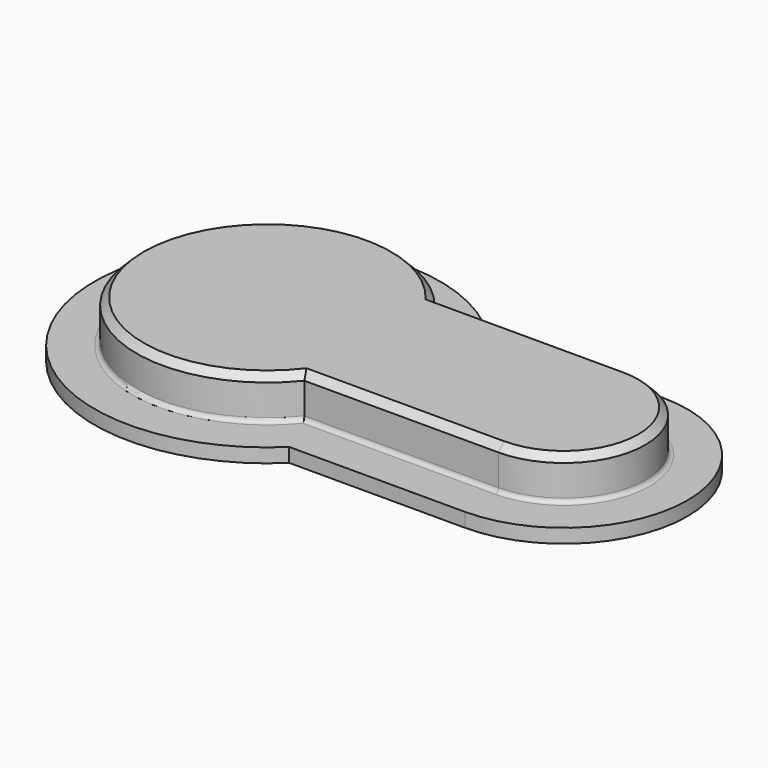
from build123d import *

# Parameters (mm, degrees)
F1_DEPTH = 3
F3_DEPTH = 1
F4_SIZE  = 0.5
F5_R     = 0.3


with BuildPart() as f1:
    # F0 (on Top) → F1 (new body)
    with BuildSketch(Plane.XY):
        with BuildLine():
            Line((21.1, 5.8), (7.2698005475, 5.8))
            ThreePointArc((7.2698005475, 5.8), (-9.3, 0), (7.2698005475, -5.8))
            Line((7.2698005475, -5.8), (21.1, -5.8))
            ThreePointArc((21.1, -5.8), (26.9, 0), (21.1, 5.8))
        make_face()
    extrude(amount=F1_DEPTH)

    # F2 (on face) → F3 (join)
    with BuildSketch(Plane(origin=(0, 0, 0), x_dir=(1, 0, 0), z_dir=(0, 0, -1))):
        with BuildLine():
            ThreePointArc((21.1, -8.8), (29.9, 0), (21.1, 8.8))
            Line((21.1, 8.8), (8.5936022715, 8.8))
            ThreePointArc((8.5936022715, 8.8), (-12.3, 0), (8.5936022715, -8.8))
            Line((8.5936022715, -8.8), (21.1, -8.8))
        make_face()
    extrude(amount=F3_DEPTH)

    # F4
    f4_edges = [f1.edges().sort_by_distance(p)[0] for p in [
        (14.1849, -5.8, 3),
        (26.9, 0, 3),
        (14.1849, 5.8, 3),
        (-9.3, 0, 3),
    ]]
    chamfer(f4_edges, length=F4_SIZE)

    # F5
    f5_edges = [f1.edges().sort_by_distance(p)[0] for p in [
        (-9.3, 0, 0),
        (14.1849, -5.8, 0),
        (26.9, 0, 0),
        (14.1849, 5.8, 0),
    ]]
    fillet(f5_edges, radius=F5_R)


solid = f1.part
